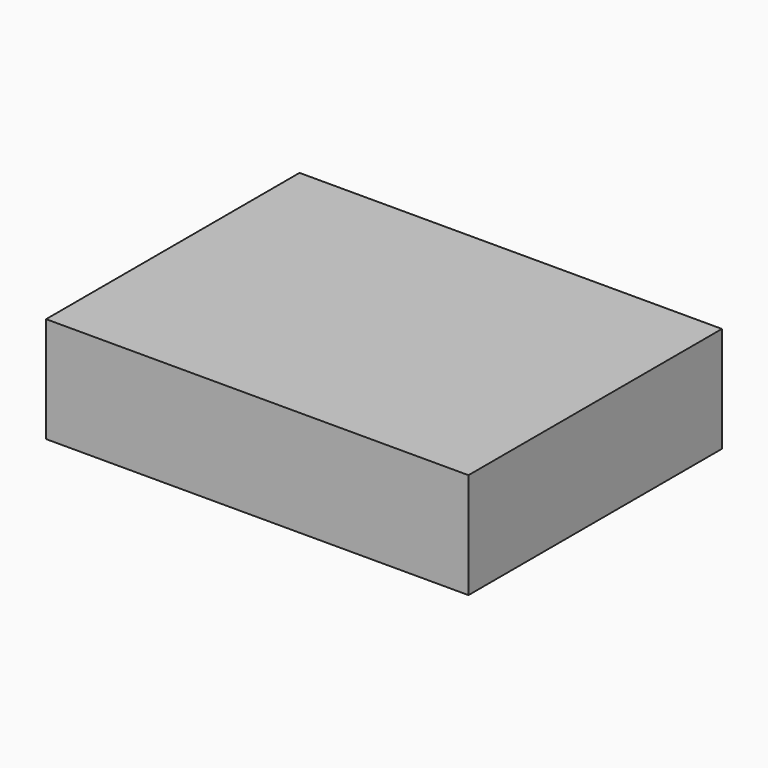
from build123d import *

# Parameters (mm, degrees)
F0_W     = 101.6
F0_H     = 76.2
F1_DEPTH = 25.4
F2_D     = 8.8
F2_DEPTH = 19.625
F2_TIP   = 2.6437867237
F3_D     = 8
F3_DEPTH = 7.62
F3_TIP   = 2.4034424761


with BuildPart() as f1:
    # F0 (on Top) → F1 (new body)
    with BuildSketch(Plane.XY):
        with Locations((50.8, 38.1)):
            Rectangle(F0_W, F0_H)
    extrude(amount=F1_DEPTH)

    # F2
    with Locations(Plane(origin=(0, 0, 0), x_dir=(1, 0, 0), z_dir=(0, 0, -1))):
        with Locations((19.05, -28.575), (82.55, -28.575)):
            Hole(F2_D / 2, depth=F2_DEPTH)
            with Locations((0, 0, -(F2_DEPTH + F2_TIP / 2))):  # 118° drill point
                Cone(0, F2_D / 2, F2_TIP, mode=Mode.SUBTRACT)

    # F3
    with Locations(Plane(origin=(0, 0, 0), x_dir=(1, 0, 0), z_dir=(0, 0, -1))):
        with Locations((82.55, -9.525), (19.05, -9.525)):
            Hole(F3_D / 2, depth=F3_DEPTH)
            with Locations((0, 0, -(F3_DEPTH + F3_TIP / 2))):  # 118° drill point
                Cone(0, F3_D / 2, F3_TIP, mode=Mode.SUBTRACT)


solid = f1.part
